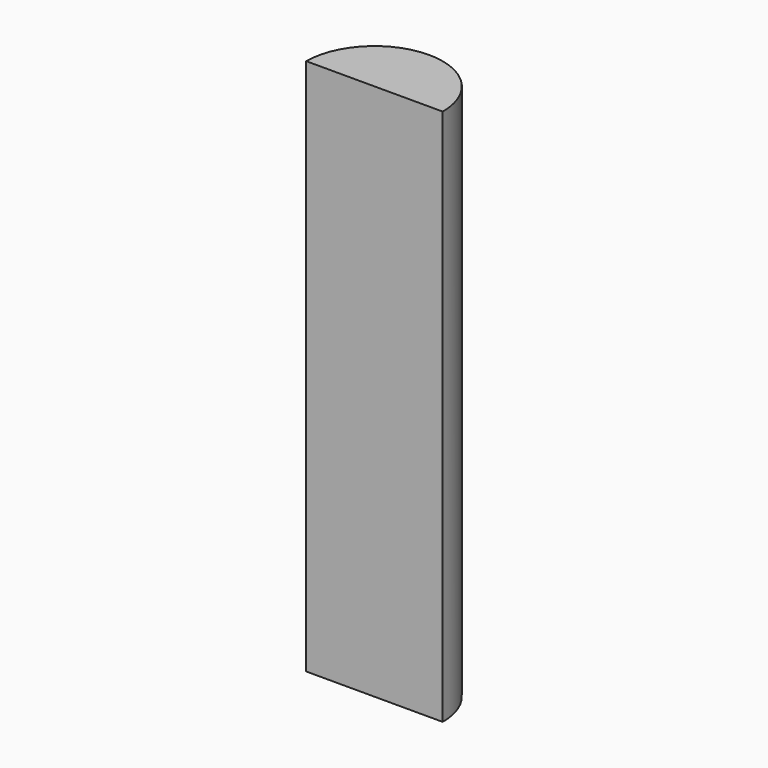
from build123d import *

# Parameters (mm, degrees)
F0_R     = 1.27
F1_DEPTH = 10
F4_DEPTH = 98.044


with BuildPart() as f1:
    # F0 (on Top) → F1 (new body)
    with BuildSketch(Plane.XY):
        Circle(F0_R)
    extrude(amount=F1_DEPTH)

    # F3 (on offset) → F4 (cut)
    with BuildSketch(Plane.XY.offset(44.958)):
        with BuildLine():
            Line((1.634676, 0), (-1.553878, 0))
            ThreePointArc((-1.553878, 0), (0.040399, -2.121381), (1.634676, 0))
        make_face()
    extrude(amount=-F4_DEPTH, mode=Mode.SUBTRACT)


solid = f1.part
